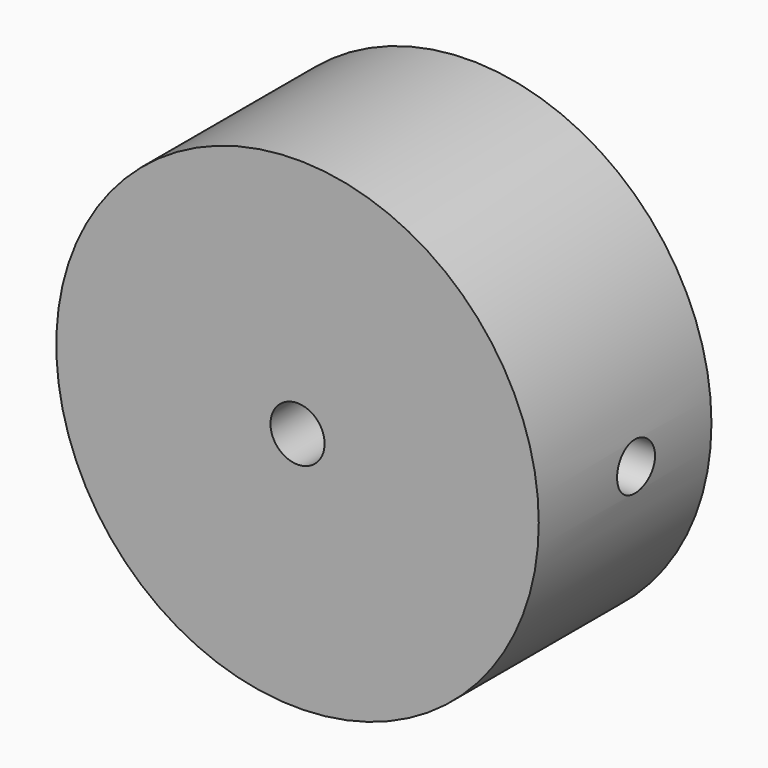
from build123d import *

# Parameters (mm, degrees)
F0_R     = 12.065
F1_DEPTH = 10.795
F2_R     = 7.9375
F3_DEPTH = 1.905
F4_R     = 3.175
F5_DEPTH = 3.302
F7_D     = 2.7051
F9_D     = 2.3749
F9_DEPTH = 12.066


with BuildPart() as f1:
    # F0 (on Front) → F1 (new body)
    with BuildSketch(Plane.XZ):
        Circle(F0_R)
    extrude(amount=F1_DEPTH)

    # F2 (on face) → F3 (cut)
    with BuildSketch(Plane.XZ):
        Circle(F2_R)
    extrude(amount=F3_DEPTH, mode=Mode.SUBTRACT)

    # F4 (on face) → F5 (cut)
    with BuildSketch(Plane.XZ):
        Circle(F4_R)
    extrude(amount=F5_DEPTH, mode=Mode.SUBTRACT)

    # F7 (through all)
    with Locations(Plane.XZ.offset(10.795)):
        with Locations((0, 0)):
            Hole(F7_D / 2)

    # F9 (through all, one way)
    with BuildSketch(Plane(origin=(0, 0, 0), x_dir=(0, 1, 0), z_dir=(-1, 0, 0))):
        with Locations((-4.7127064317, 0)):
            Circle(F9_D / 2)
    extrude(amount=-F9_DEPTH, mode=Mode.SUBTRACT)


solid = f1.part
